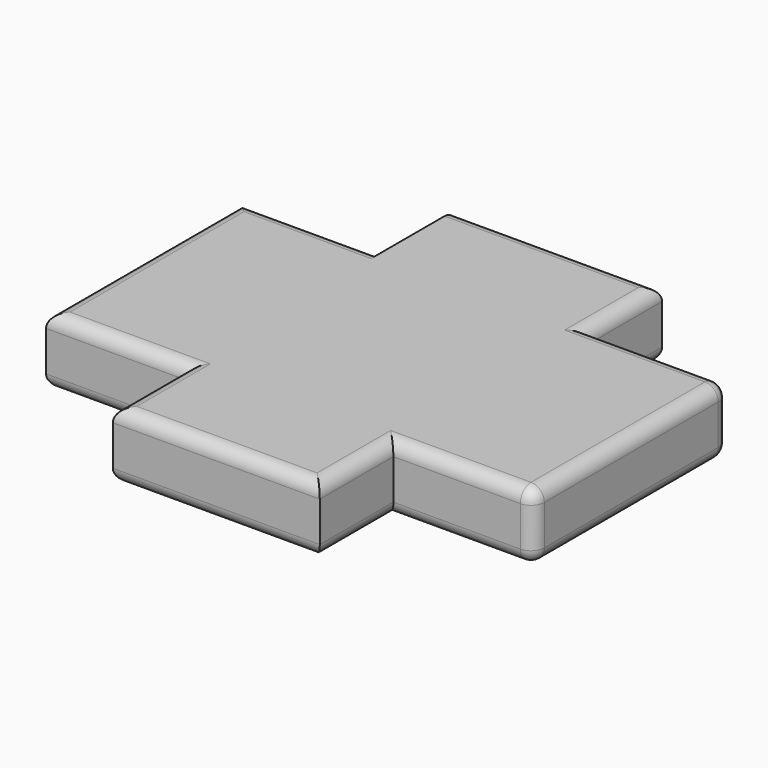
from build123d import *

# Parameters (mm, degrees)
F0_W     = 77.5767117739
F0_H     = 34.4769358635
F0_H_2   = 91.479703784
F0_W_2   = 52.6066869497
F1_DEPTH = 25
F2_R     = 5


with BuildPart() as f1:
    # F0 (on Top) → F1 (new body)
    with BuildSketch(Plane.XY):
        with Locations((-104.2081192136, -41.2089005113)):
            Rectangle(F0_W, F0_H)
        with Locations((-104.2081192136, 84.7477391362)):
            Rectangle(F0_W, F0_H)
        with Locations((-104.2081192136, 21.7694193125)):
            Rectangle(F0_W, F0_H_2)
        with Locations((-169.2998185754, 21.7694193125)):
            Rectangle(F0_W_2, F0_H_2)
        with Locations((-39.1164198518, 21.7694193125)):
            Rectangle(F0_W_2, F0_H_2)
    extrude(amount=F1_DEPTH)

    # F2
    f2_edges = [f1.edges().sort_by_distance(p)[0] for p in [
        (-12.813076, -23.970433, 12.5),
        (-12.813076, 67.509271, 12.5),
        (-12.813076, 21.769419, 0),
        (-12.813076, 21.769419, 25),
        (-65.419763, -41.208901, 0),
        (-39.11642, -23.970433, 0),
        (-39.11642, 67.509271, 0),
        (-65.419763, 84.747739, 0),
        (-104.208119, 101.986207, 0),
        (-142.996475, 84.747739, 0),
        (-169.299819, 67.509271, 0),
        (-195.603162, 21.769419, 0),
        (-169.299819, -23.970433, 0),
        (-142.996475, -41.208901, 0),
        (-104.208119, -58.447368, 0),
        (-104.208119, -58.447368, 25),
        (-142.996475, -41.208901, 25),
        (-169.299819, -23.970433, 25),
        (-195.603162, 21.769419, 25),
        (-169.299819, 67.509271, 25),
        (-104.208119, 101.986207, 25),
        (-65.419763, 84.747739, 25),
        (-39.11642, 67.509271, 25),
        (-39.11642, -23.970433, 25),
        (-65.419763, -41.208901, 25),
    ]]
    fillet(f2_edges, radius=F2_R)


solid = f1.part
